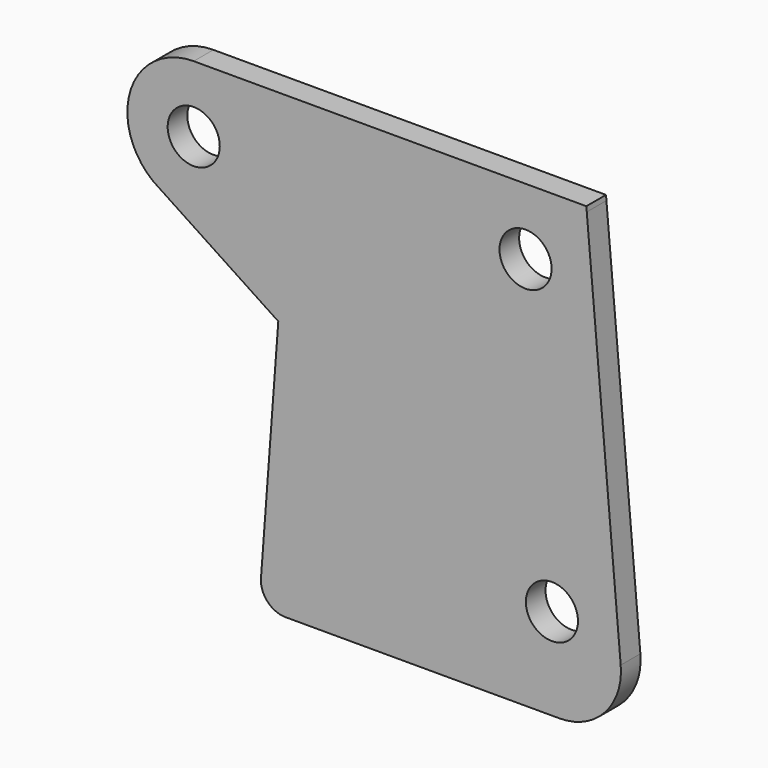
from build123d import *

# Parameters (mm, degrees)
F0_R     = 6.731
F1_DEPTH = 6.35


with BuildPart() as f1:
    # F0 (on Front) → F1 (new body)
    with BuildSketch(Plane.XZ):
        with BuildLine():
            Line((-27.938645, -10.796662), (-32.411419, -70.648441))
            ThreePointArc((-32.411419, -70.648441), (-30.733507, -75.441243), (-26.079076, -77.471662))
            Line((-26.079076, -77.471662), (44.710318, -77.471662))
            ThreePointArc((44.710318, -77.471662), (56.414595, -72.321657), (60.524908, -60.213065))
            Line((60.524908, -60.213065), (51.757109, 40.003338))
            Line((51.757109, 40.003338), (51.645999, 41.273338))
            Line((51.645999, 41.273338), (50.482258, 41.273338))
            Line((50.482258, 41.273338), (48.875946, 41.273338))
            Line((48.875946, 41.273338), (35.935501, 41.273338))
            Line((35.935501, 41.273338), (-49.789499, 41.273338))
            ThreePointArc((-49.789499, 41.273338), (-66.029519, 29.624953), (-60.202465, 10.507722))
            Line((-60.202465, 10.507722), (-27.938645, -10.796662))
        make_face()
        with Locations((42.753869, -53.805966)):
            Circle(F0_R, mode=Mode.SUBTRACT)
        with Locations((-49.789499, 24.128338)):
            Circle(F0_R, mode=Mode.SUBTRACT)
        with Locations((35.935501, 24.128338)):
            Circle(F0_R, mode=Mode.SUBTRACT)
    extrude(amount=F1_DEPTH)


solid = f1.part
